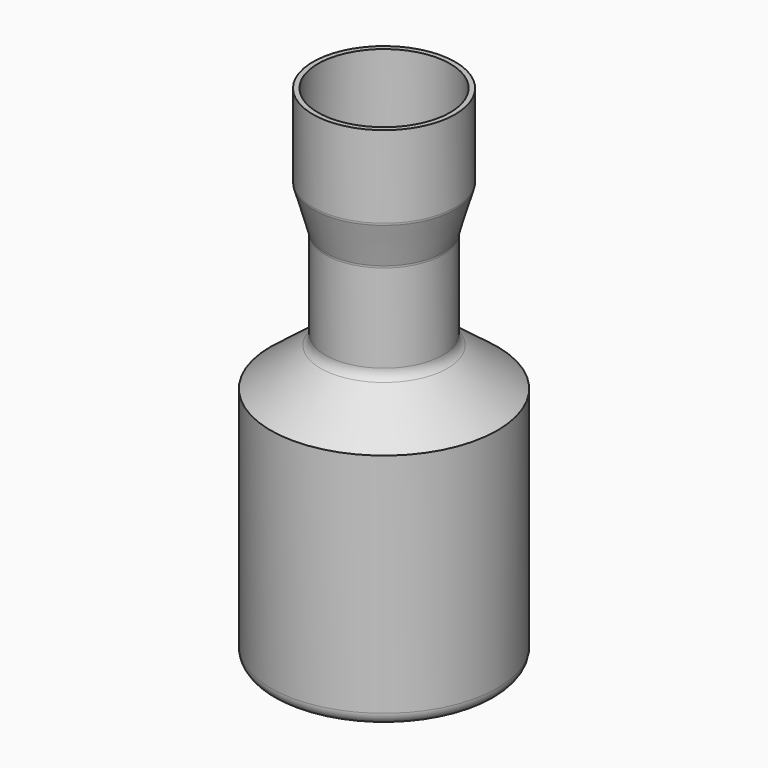
from build123d import *

# Parameters (mm, degrees)
F2_T = -2


with BuildPart() as f1:
    # F0 (on Front) → F1 (revolve)
    with BuildSketch(Plane.XZ):
        with BuildLine():
            Line((0, 200), (0, 0))
            Line((0, 0), (40, 0))
            ThreePointArc((40, 0), (43.535534, 1.464466), (45, 5))
            Line((45, 5), (45, 95.02996))
            Line((45, 95.02996), (25.15984, 110.240748))
            ThreePointArc((25.15984, 110.240748), (23.718094, 111.996404), (23.201998, 114.20878))
            Line((23.201998, 114.20878), (23.201998, 149.20878))
            ThreePointArc((23.201998, 149.20878), (23.231505, 149.628508), (23.319446, 150.03998))
            Line((23.319446, 150.03998), (28.111053, 166.656979))
            ThreePointArc((28.111053, 166.656979), (28.198994, 167.068451), (28.228501, 167.488179))
            Line((28.228501, 167.488179), (28.228501, 200))
            Line((28.228501, 200), (0, 200))
        make_face()
    revolve(axis=Axis((0, 0, 100), (0, 0, -1)))

    # F2
    f2_openings = [f1.faces().sort_by_distance(p)[0] for p in [
        (0, 0, 200),
    ]]
    offset(amount=F2_T, openings=f2_openings)


solid = f1.part
